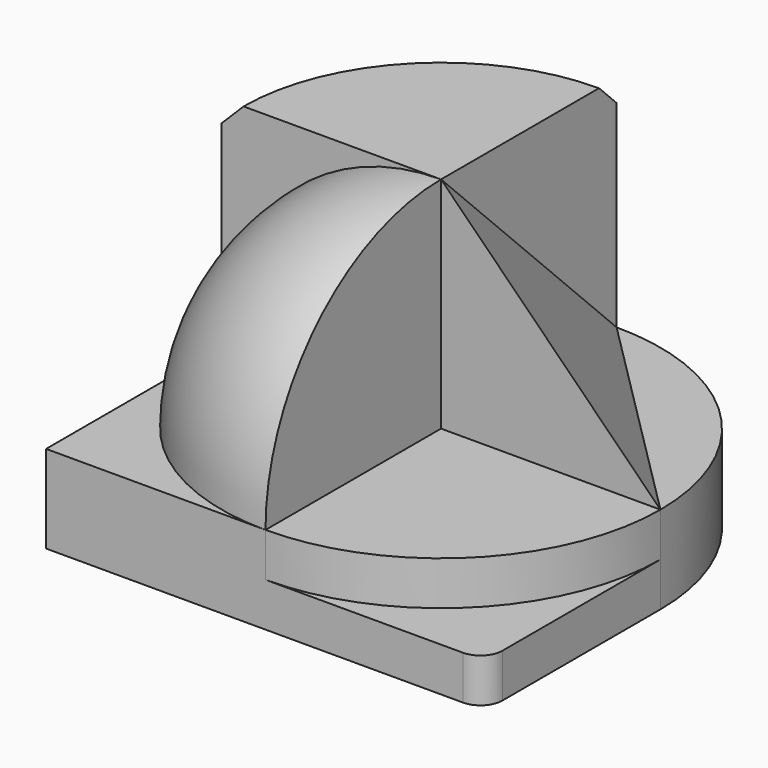
from build123d import *

# Parameters (mm, degrees)
F0_W      = 100
F0_H      = 100
F1_DEPTH  = 20
F2_R      = 50
F4_DEPTH  = 10
F6_ANGLE  = 90
F7_W      = 50
F7_H      = 50
F8_DEPTH  = 10
F10_DEPTH = 60
F11_SIZE  = 5
F12_R     = 5
F16_R     = 35
F17_DEPTH = 10
F18_R     = 5


with BuildPart() as f1:
    # F0 (on Top) → F1 (new body)
    with BuildSketch(Plane.XY):
        Rectangle(F0_W, F0_H)
    extrude(amount=F1_DEPTH)

    # F2
    f2_edges = [f1.edges().sort_by_distance(p)[0] for p in [
        (50, 50, 10),
    ]]
    fillet(f2_edges, radius=F2_R)

    # F3 (on face) → F4 (cut)
    with BuildSketch(Plane.XY.offset(20)):
        with BuildLine():
            ThreePointArc((50, 0), (35.3553390593, -35.3553390593), (0, -50))
            Line((0, -50), (50, -50))
            Line((50, -50), (50, 0))
        make_face()
    extrude(amount=-F4_DEPTH, mode=Mode.SUBTRACT)

    # F5 (on Front) → F6 (revolve)
    with BuildSketch(Plane.XZ):
        with BuildLine():
            ThreePointArc((0, 70), (-35.3553390593, 55.3553390593), (-50, 20))
            Line((-50, 20), (0, 20))
            Line((0, 20), (0, 70))
        make_face()
    revolve(axis=Axis((0, 0, 45), (0, 0, 1)), revolution_arc=F6_ANGLE)

    # F7 (on face) → F8 (cut)
    with BuildSketch(Plane.XY.offset(20)):
        with Locations((-25, 25)):
            Rectangle(F7_W, F7_H)
    extrude(amount=-F8_DEPTH, mode=Mode.SUBTRACT)

    # F9 (on face) → F10 (join)
    with BuildSketch(Plane.XY.offset(10)):
        with BuildLine():
            ThreePointArc((0, 50), (-35.3553390593, 35.3553390593), (-50, 0))
            Line((-50, 0), (0, 0))
            Line((0, 0), (0, 50))
        make_face()
    extrude(amount=F10_DEPTH)

    # F11
    f11_edges = [f1.edges().sort_by_distance(p)[0] for p in [
        (-35.355339, 35.355339, 70),
    ]]
    chamfer(f11_edges, length=F11_SIZE)

    # F12
    f12_edges = [f1.edges().sort_by_distance(p)[0] for p in [
        (-50, 50, 5),
        (50, -50, 5),
    ]]
    fillet(f12_edges, radius=F12_R)

    # F13 (on face) → F15 section 0
    with BuildSketch(Plane.XY.offset(20), mode=Mode.PRIVATE) as f15_s0:
        Polygon((50, 0), (0, 50), (0, 0), align=None)
    loft([f15_s0.sketch, Vertex(0, 0, 70)])

    # F16 (on face) → F17 (cut)
    with BuildSketch(Plane(origin=(0, 0, 0), x_dir=(1, 0, 0), z_dir=(0, 0, -1))):
        Circle(F16_R)
    extrude(amount=-F17_DEPTH, mode=Mode.SUBTRACT)

    # F18
    f18_edges = [f1.edges().sort_by_distance(p)[0] for p in [
        (-35, 0, 10),
    ]]
    fillet(f18_edges, radius=F18_R)


solid = f1.part
